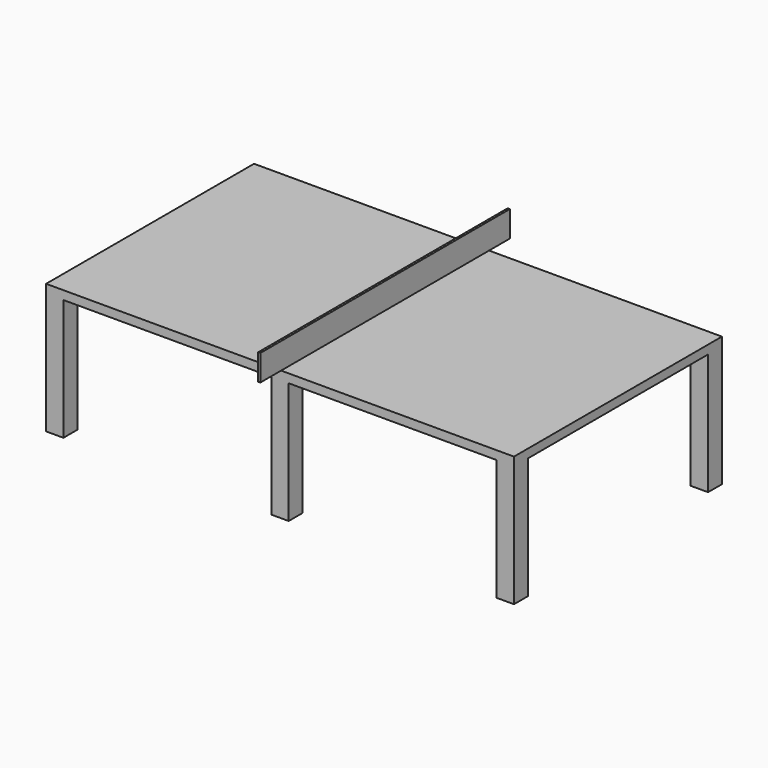
from build123d import *

# Parameters (mm, degrees)
F0_W     = 2743.2
F0_H     = 1524
F1_DEPTH = 50.8
F2_W     = 12.7
F2_H     = 1524
F2_H_2   = 152.4
F3_DEPTH = 152.4
F4_W     = 101.6
F4_H     = 101.6
F5_DEPTH = 711.2


with BuildPart() as f1:
    # F0 (on Top) → F1 (new body)
    with BuildSketch(Plane.XY):
        with Locations((0.1544617116, -972.7794401628)):
            Rectangle(F0_W, F0_H)
    extrude(amount=F1_DEPTH)

    # F4 (on face) → F5 (join)
    with BuildSketch(Plane(origin=(0, 0, 0), x_dir=(1, 0, 0), z_dir=(0, 0, -1))):
        with Locations((-1320.6455382884, 1683.9794401628)):
            Rectangle(F4_W, F4_H)
        with Locations((0.1544617116, 1683.9794401628)):
            Rectangle(F4_W, F4_H)
        with Locations((1320.9544617116, 1683.9794401628)):
            Rectangle(F4_W, F4_H)
        with Locations((1320.9544617116, 261.5794401628)):
            Rectangle(F4_W, F4_H)
        with Locations((0.1544617116, 261.5794401628)):
            Rectangle(F4_W, F4_H)
        with Locations((-1320.6455382884, 261.5794401628)):
            Rectangle(F4_W, F4_H)
    extrude(amount=F5_DEPTH)


with BuildPart() as f3:
    # F2 (on face) → F3 (new body)
    with BuildSketch(Plane.XY.offset(50.8)):
        with Locations((0.1544617116, -972.7794401628)):
            Rectangle(F2_W, F2_H)
        with Locations((0.1544617116, -1810.9794401628)):
            Rectangle(F2_W, F2_H_2)
        with Locations((0.1544617116, -134.5794401628)):
            Rectangle(F2_W, F2_H_2)
    extrude(amount=F3_DEPTH)


solid = Compound([f1.part, f3.part])
